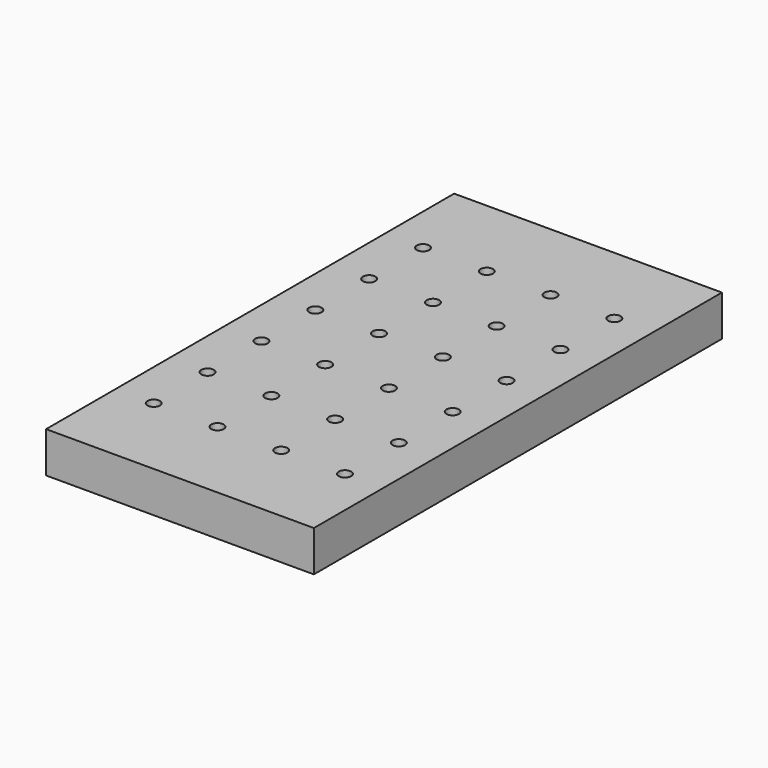
from build123d import *

# Parameters (mm, degrees)
SKETCH_W                     = 10.5
SKETCH_H                     = 20
PAD_DEPTH                    = 1.6
SKETCH001_R                  = 0.245
POCKET_DEPTH                 = 46.891617
SKETCH001_LINEARPATTERN_2_R  = 0.245
POCKET_LINEARPATTERN_2_DEPTH = 46.891617
SKETCH001_LINEARPATTERN_3_R  = 0.245
POCKET_LINEARPATTERN_3_DEPTH = 46.891617
SKETCH001_LINEARPATTERN_4_R  = 0.245
POCKET_LINEARPATTERN_4_DEPTH = 46.891617
LINEARPATTERN001_COUNT       = 6
LINEARPATTERN001_PITCH       = 2.64


with BuildPart() as part:
    # Sketch → Pad (new body)
    with BuildSketch(Plane.XY):
        Rectangle(SKETCH_W, SKETCH_H)
    extrude(amount=PAD_DEPTH)

    # Sketch001 → Pocket (cut, through all)
    with BuildSketch(Plane.XY):
        with Locations((-3.75, 6.6)):
            Circle(SKETCH001_R)
    pocket = extrude(amount=POCKET_DEPTH, mode=Mode.SUBTRACT)

    # Sketch001 LinearPattern 2 → Pocket LinearPattern 2 (cut, through all)
    with BuildSketch(Plane(origin=(2.5, 0, 0), x_dir=(1, 0, 0), z_dir=(0, 0, 1))):
        with Locations((-3.75, 6.6)):
            Circle(SKETCH001_LINEARPATTERN_2_R)
    pocket_linearpattern_2 = extrude(amount=POCKET_LINEARPATTERN_2_DEPTH, mode=Mode.SUBTRACT)

    # Sketch001 LinearPattern 3 → Pocket LinearPattern 3 (cut, through all)
    with BuildSketch(Plane(origin=(5, 0, 0), x_dir=(1, 0, 0), z_dir=(0, 0, 1))):
        with Locations((-3.75, 6.6)):
            Circle(SKETCH001_LINEARPATTERN_3_R)
    pocket_linearpattern_3 = extrude(amount=POCKET_LINEARPATTERN_3_DEPTH, mode=Mode.SUBTRACT)

    # Sketch001 LinearPattern 4 → Pocket LinearPattern 4 (cut, through all)
    with BuildSketch(Plane(origin=(7.5, 0, 0), x_dir=(1, 0, 0), z_dir=(0, 0, 1))):
        with Locations((-3.75, 6.6)):
            Circle(SKETCH001_LINEARPATTERN_4_R)
    pocket_linearpattern_4 = extrude(amount=POCKET_LINEARPATTERN_4_DEPTH, mode=Mode.SUBTRACT)

    # LinearPattern001: Pocket, Pocket LinearPattern 2, Pocket LinearPattern 3, Pocket LinearPattern 4 ×6
    with Locations(*[(0, -i * LINEARPATTERN001_PITCH, 0) for i in range(1, LINEARPATTERN001_COUNT)]):
        add(pocket, mode=Mode.SUBTRACT)
        add(pocket_linearpattern_2, mode=Mode.SUBTRACT)
        add(pocket_linearpattern_3, mode=Mode.SUBTRACT)
        add(pocket_linearpattern_4, mode=Mode.SUBTRACT)


solid = part.part
